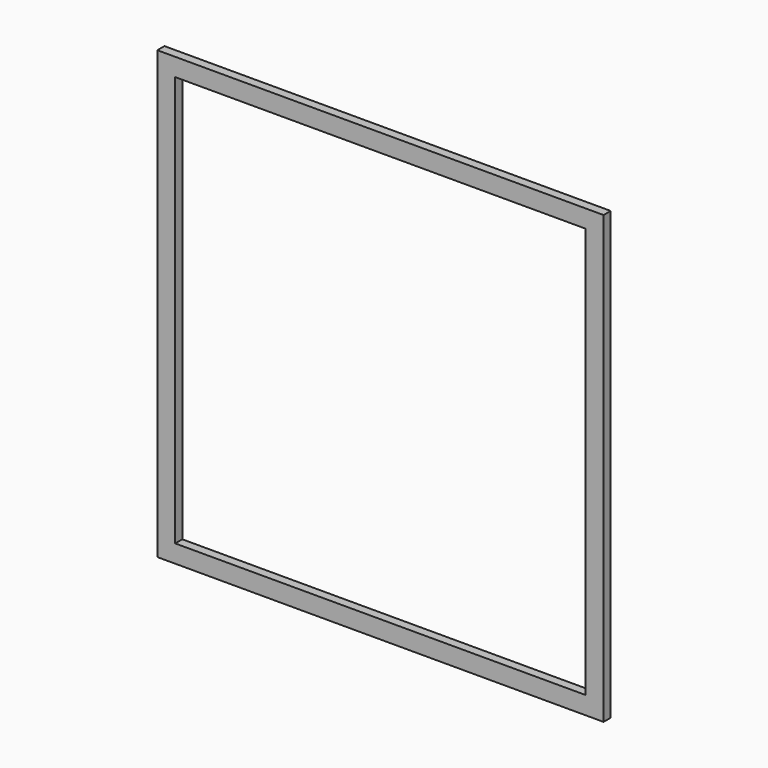
from build123d import *

# Parameters (mm, degrees)
BOX001_W     = 23
BOX001_H     = 10
BOX001_DEPTH = 23
BOX_W        = 25
BOX_H        = 0.5
BOX_DEPTH    = 25


with BuildPart() as box001:
    # Box001 → Box001 (new body)
    with BuildSketch(Plane(origin=(1, 0, 1), x_dir=(1, 0, 0), z_dir=(0, 0, 1))):
        with Locations((11.5, 5)):
            Rectangle(BOX001_W, BOX001_H)
    extrude(amount=BOX001_DEPTH)


with BuildPart() as cut:
    # Box → Box (new body)
    with BuildSketch(Plane.XY):
        with Locations((12.5, 0.25)):
            Rectangle(BOX_W, BOX_H)
    extrude(amount=BOX_DEPTH)

    # Cut: cut Box001
    add(box001.part, mode=Mode.SUBTRACT)


solid = cut.part
